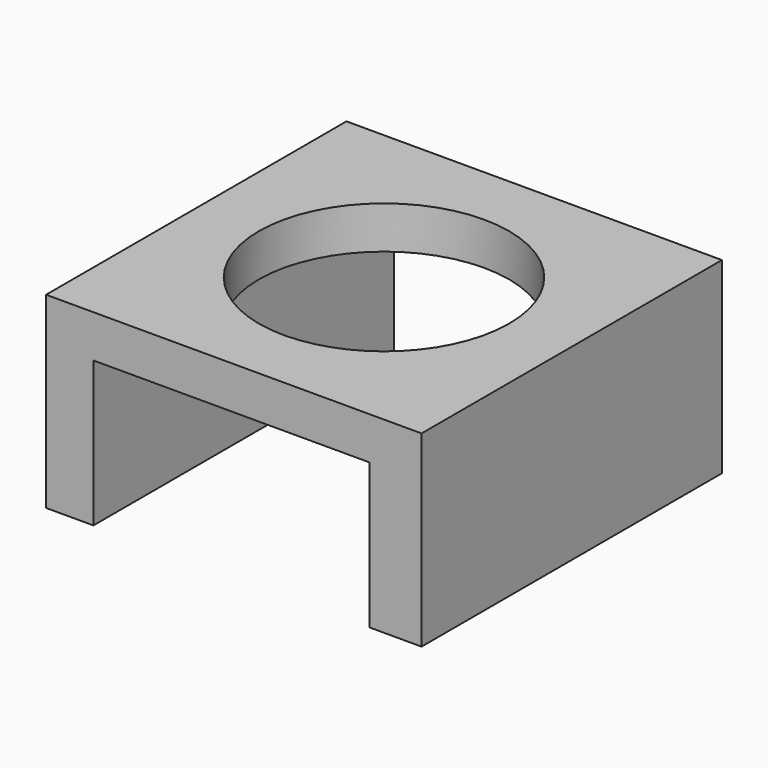
from build123d import *

# Parameters (mm, degrees)
F0_W     = 60
F0_H     = 60
F0_R     = 20
F1_DEPTH = 30
F2_W     = 44.111976
F2_H     = 23.213955
F3_DEPTH = 76.2


with BuildPart() as f1:
    # F0 (on Top) → F1 (new body)
    with BuildSketch(Plane.XY):
        Rectangle(F0_W, F0_H)
        Circle(F0_R, mode=Mode.SUBTRACT)
    extrude(amount=F1_DEPTH)

    # F2 (on face) → F3 (cut)
    with BuildSketch(Plane.XZ.offset(30)):
        with Locations((-0.380277, 11.606977)):
            Rectangle(F2_W, F2_H)
    extrude(amount=-F3_DEPTH, mode=Mode.SUBTRACT)


solid = f1.part
